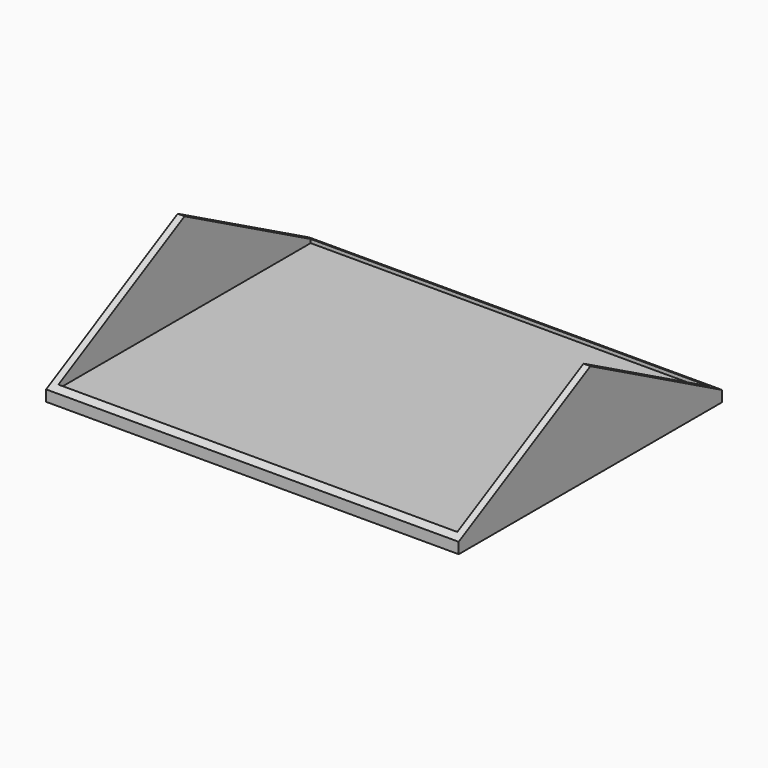
from build123d import *

# Parameters (mm, degrees)
F2_DEPTH = 7645.4
F3_W     = 7391.4
F3_H     = 5842
F4_DEPTH = 1625.6


with BuildPart() as f2:
    # F1 (on Right) → F2 (new body)
    with BuildSketch(Plane.YZ):
        Polygon((0, 203.2), (0, 0), (6096, 0), (6096, 203.2), (3048, 1828.8), align=None)
    extrude(amount=F2_DEPTH)

    # F3 (on offset) → F4 (cut)
    with BuildSketch(Plane.XY.offset(1828.8)):
        with Locations((3822.7, 3048)):
            Rectangle(F3_W, F3_H)
    extrude(amount=-F4_DEPTH, mode=Mode.SUBTRACT)


solid = f2.part
